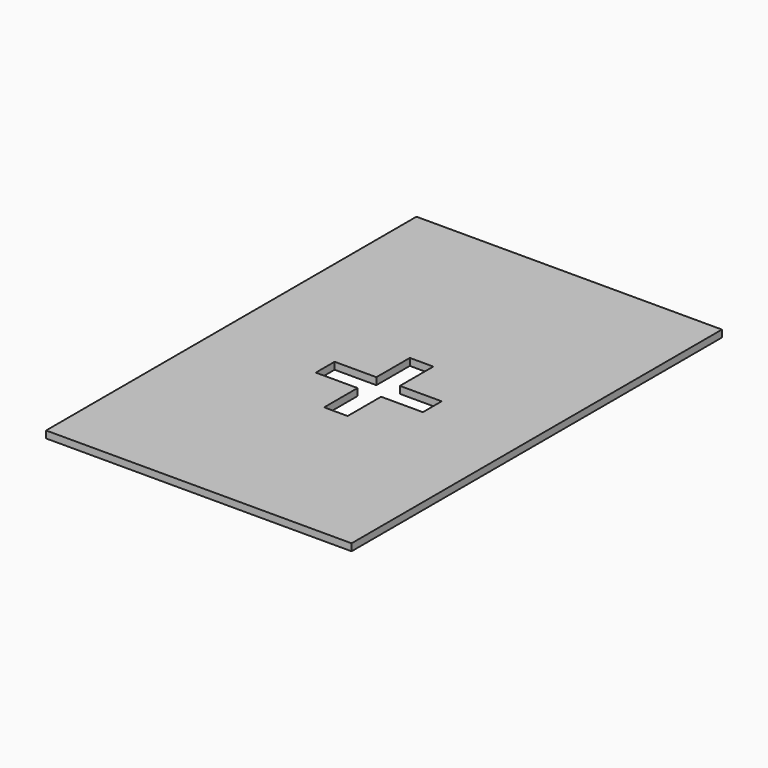
from build123d import *

# Parameters (mm, degrees)
F0_W     = 130
F0_H     = 197
F1_DEPTH = 3
F3_DEPTH = 9.652


with BuildPart() as f1:
    # F0 (on Top) → F1 (new body)
    with BuildSketch(Plane.XY):
        Rectangle(F0_W, F0_H)
    extrude(amount=F1_DEPTH)

    # F2 (on Top) → F3 (cut)
    with BuildSketch(Plane.XY):
        Polygon((6.758312, 0), (6.758312, 17.78), (-3.241688, 17.78), (-3.241688, 0), (-21.021688, 0), (-21.021688, -10.0076), (-3.241688, -10.0076), (-3.241688, -27.7876), (6.765912, -27.7876), (6.765912, -10.0076), (24.545912, -10.0076), (24.545912, 0), align=None)
    extrude(amount=F3_DEPTH, mode=Mode.SUBTRACT)


solid = f1.part
